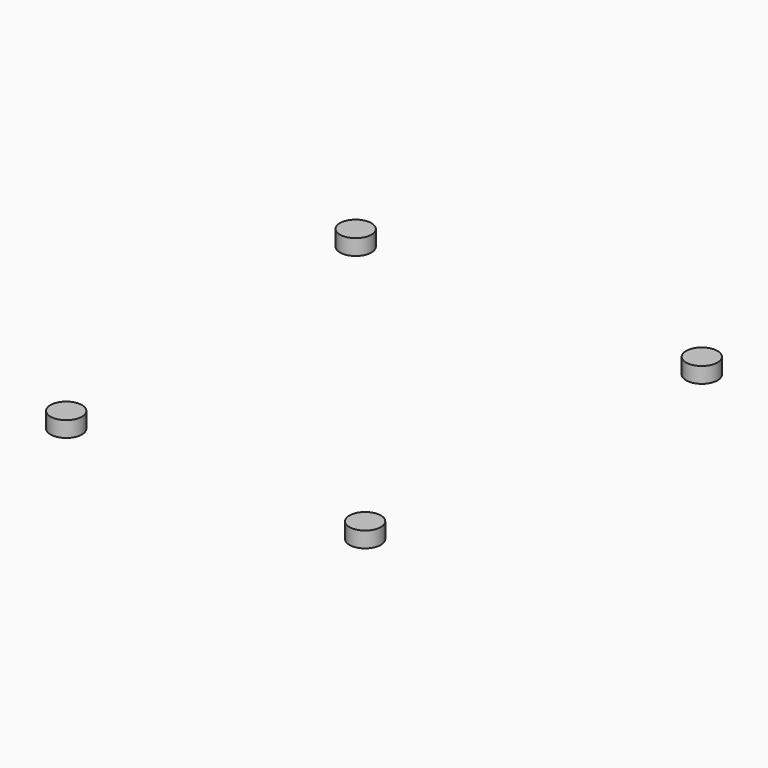
from build123d import *

# Parameters (mm, degrees)
CYLINDER092_R     = 4
CYLINDER092_DEPTH = 4
CYLINDER093_R     = 4
CYLINDER093_DEPTH = 4
CYLINDER094_R     = 4
CYLINDER094_DEPTH = 4
CYLINDER091_R     = 4
CYLINDER091_DEPTH = 4


with BuildPart() as cylinder094:
    # Cylinder092 → Cylinder092 (new body)
    with BuildSketch(Plane(origin=(32, 8, 0), x_dir=(1, 0, 0), z_dir=(0, 0, 1))):
        Circle(CYLINDER092_R)
    extrude(amount=CYLINDER092_DEPTH)


with BuildPart() as cylinder095:
    # Cylinder093 → Cylinder093 (new body)
    with BuildSketch(Plane(origin=(116, 105, 0), x_dir=(1, 0, 0), z_dir=(0, 0, 1))):
        Circle(CYLINDER093_R)
    extrude(amount=CYLINDER093_DEPTH)


with BuildPart() as cylinder096:
    # Cylinder094 → Cylinder094 (new body)
    with BuildSketch(Plane(origin=(28, 105, 0), x_dir=(1, 0, 0), z_dir=(0, 0, 1))):
        Circle(CYLINDER094_R)
    extrude(amount=CYLINDER094_DEPTH)


with BuildPart() as topmountins:
    # Cylinder091 → Cylinder091 (new body)
    with BuildSketch(Plane(origin=(108, 8, 0), x_dir=(1, 0, 0), z_dir=(0, 0, 1))):
        Circle(CYLINDER091_R)
    extrude(amount=CYLINDER091_DEPTH)

    # Fusion044: union Cylinder094, Cylinder095, Cylinder096
    add(cylinder094.part)
    add(cylinder095.part)
    add(cylinder096.part)


with BuildPart() as topmountins_1:
    # Fusion044 placement: moved
    add(topmountins.part.moved(Location((0, 0, 22))))


solid = topmountins_1.part
